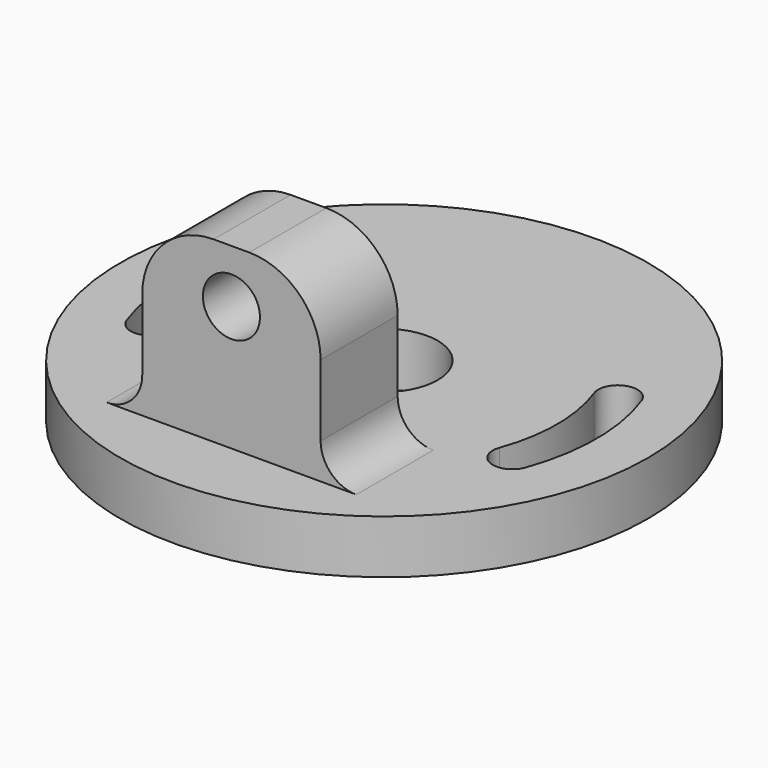
from build123d import *

# Parameters (mm, degrees)
SKETCH_R     = 14.8
SKETCH_R_2   = 3
PAD_DEPTH    = 3
SKETCH002_W  = 10
SKETCH002_H  = 5.4
PAD001_DEPTH = 10
SKETCH003_R  = 1.6
POCKET_DEPTH = 5.4
FILLET_R     = 4
FILLET001_R  = 4
FILLET002_R  = 2
FILLET003_R  = 2


with BuildPart() as part:
    # Sketch → Pad (new body)
    with BuildSketch(Plane.XY):
        Circle(SKETCH_R)
        Circle(SKETCH_R_2, mode=Mode.SUBTRACT)
        with BuildLine():
            ThreePointArc((-9.115018, 3.317595), (-9.772458, 4.727479), (-11.182342, 4.07004))
            ThreePointArc((-11.182342, 4.07004), (-11.9, 0), (-11.182342, -4.07004))
            ThreePointArc((-11.182342, -4.07004), (-9.772458, -4.727479), (-9.115018, -3.317595))
            ThreePointArc((-9.115018, 3.317595), (-9.7, 0), (-9.115018, -3.317595))
        make_face(mode=Mode.SUBTRACT)
        with BuildLine():
            ThreePointArc((11.182342, 4.07004), (9.772458, 4.727479), (9.115018, 3.317595))
            ThreePointArc((9.115018, -3.317595), (9.7, 0), (9.115018, 3.317595))
            ThreePointArc((9.115018, -3.317595), (9.772458, -4.727479), (11.182342, -4.07004))
            ThreePointArc((11.182342, -4.07004), (11.9, 0), (11.182342, 4.07004))
        make_face(mode=Mode.SUBTRACT)
    extrude(amount=PAD_DEPTH)

    # Sketch002 → Pad001 (new body)
    with BuildSketch(Plane.XY.offset(3)):
        with Locations((0, -8)):
            Rectangle(SKETCH002_W, SKETCH002_H)
    extrude(amount=PAD001_DEPTH)

    # Sketch003 → Pocket (cut)
    with BuildSketch(Plane(origin=(0, -5.3, 0), x_dir=(-1, 0, 0), z_dir=(0, 1, 0))):
        with Locations((0, 10)):
            Circle(SKETCH003_R)
    extrude(amount=-POCKET_DEPTH, mode=Mode.SUBTRACT)

    # Fillet
    fillet_edges = [part.edges().sort_by_distance(p)[0] for p in [
        (5, -8, 13),
    ]]
    fillet(fillet_edges, radius=FILLET_R)

    # Fillet001
    fillet001_edges = [part.edges().sort_by_distance(p)[0] for p in [
        (-5, -8, 13),
    ]]
    fillet(fillet001_edges, radius=FILLET001_R)

    # Fillet002
    fillet002_edges = [part.edges().sort_by_distance(p)[0] for p in [
        (5, -8, 3),
    ]]
    fillet(fillet002_edges, radius=FILLET002_R)

    # Fillet003
    fillet003_edges = [part.edges().sort_by_distance(p)[0] for p in [
        (-5, -8, 3),
    ]]
    fillet(fillet003_edges, radius=FILLET003_R)


solid = part.part
